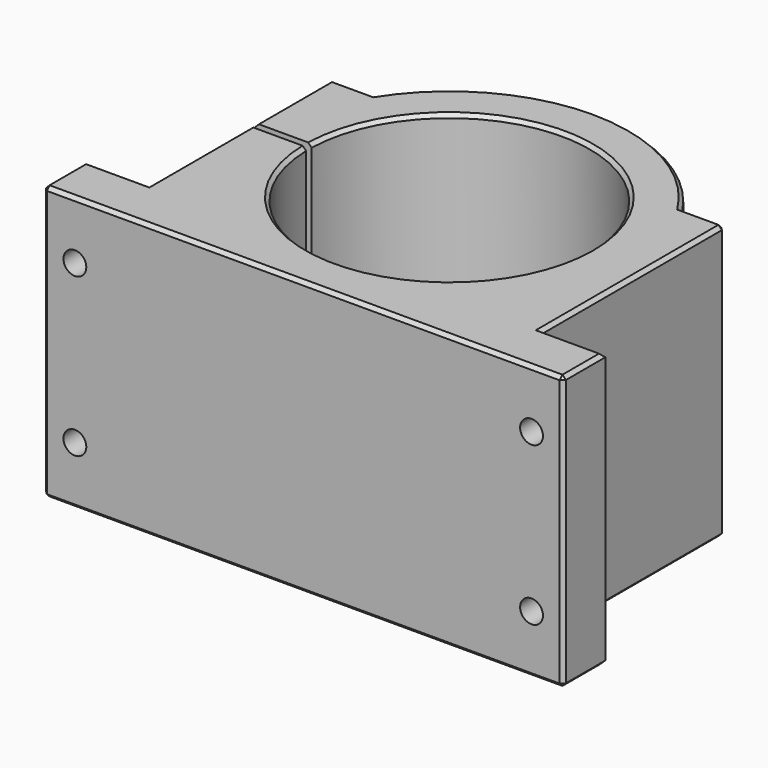
from build123d import *

# Parameters (mm, degrees)
PAD013_DEPTH            = 39
HOLE004_D               = 5.8
HOLE004_DEPTH           = 50
HOLE004_CBORE_D         = 9.5
HOLE004_CBORE_DEPTH     = 7
HOLE004_TIPS_R          = 2.9
CHAMFER003_SIZE         = 1
SKETCH021_R             = 3.25
POCKET003_DEPTH         = 408.975618
BODY005_PLACEMENT_ANGLE = 270


with BuildPart() as part:
    # Sketch019 → Pad013 (new body, symmetric)
    with BuildSketch(Plane.XZ):
        with BuildLine():
            ThreePointArc((-39.987498, -1), (40, 0), (-39.987498, 1))
            Line((-56, 1), (-39.987498, 1))
            Line((-56, 1), (-56, 28))
            Line((-56, 28), (-43.817805, 28))
            ThreePointArc((43.817805, 28), (0, 52), (-43.817805, 28))
            Line((43.817805, 28), (56, 28))
            Line((56, 28), (56, -37))
            Line((74, -37), (56, -37))
            Line((74, -52), (74, -37))
            Line((-74, -52), (74, -52))
            Line((-74, -37), (-74, -52))
            Line((-56, -37), (-74, -37))
            Line((-56, -37), (-56, -1))
            Line((-39.987498, -1), (-56, -1))
        make_face()
    extrude(amount=PAD013_DEPTH, both=True)

    # Hole004
    with Locations(Plane(origin=(0, 0, 28), x_dir=(-1, 0, 0), z_dir=(0, 0, 1))):
        with Locations((49.5, 22.5), (49.5, 0), (49.5, -22.5)):
            CounterBoreHole(HOLE004_D / 2, HOLE004_CBORE_D / 2, HOLE004_CBORE_DEPTH, depth=HOLE004_DEPTH)

    # Hole004 tips → Hole004 tip 1 section 0
    with BuildSketch(Plane(origin=(0, 0, -22), x_dir=(-1, 0, 0), z_dir=(0, 0, 1)), mode=Mode.PRIVATE) as hole004_tip_1_s0:
        with Locations((49.5, 22.5)):
            Circle(HOLE004_TIPS_R)
    loft([hole004_tip_1_s0.sketch, Vertex(-49.5, -22.5, -23.742496)], mode=Mode.SUBTRACT)

    # Hole004 tips → Hole004 tip 2 section 0
    with BuildSketch(Plane(origin=(0, 0, -22), x_dir=(-1, 0, 0), z_dir=(0, 0, 1)), mode=Mode.PRIVATE) as hole004_tip_2_s0:
        with Locations((49.5, 0)):
            Circle(HOLE004_TIPS_R)
    loft([hole004_tip_2_s0.sketch, Vertex(-49.5, 0, -23.742496)], mode=Mode.SUBTRACT)

    # Hole004 tips → Hole004 tip 3 section 0
    with BuildSketch(Plane(origin=(0, 0, -22), x_dir=(-1, 0, 0), z_dir=(0, 0, 1)), mode=Mode.PRIVATE) as hole004_tip_3_s0:
        with Locations((49.5, -22.5)):
            Circle(HOLE004_TIPS_R)
    loft([hole004_tip_3_s0.sketch, Vertex(-49.5, 22.5, -23.742496)], mode=Mode.SUBTRACT)

    # Chamfer003
    chamfer003_edges = [part.edges().sort_by_distance(p)[0] for p in [
        (40, 39, 0),
        (0, 39, 52),
        (-49.908902, 39, 28),
        (-56, 0, 28),
        (49.908902, 39, 28),
        (56, 0, 28),
        (-56, 39, 14.5),
        (-56, 39, -19),
        (-65, 39, -37),
        (-74, 39, -44.5),
        (0, 39, -52),
        (74, 39, -44.5),
        (65, 39, -37),
        (56, 39, -4.5),
        (40, -39, 0),
        (0, -39, 52),
        (-49.908902, -39, 28),
        (49.908902, -39, 28),
        (56, -39, -4.5),
        (65, -39, -37),
        (74, -39, -44.5),
        (0, -39, -52),
        (-74, -39, -44.5),
        (-65, -39, -37),
        (-56, -39, -19),
        (-56, -39, 14.5),
        (-74, 0, -52),
        (74, 0, -52),
    ]]
    chamfer(chamfer003_edges, length=CHAMFER003_SIZE)

    # Sketch021 (on Face54 of Chamfer003) → Pocket003 (cut, through all)
    with BuildSketch(Plane(origin=(0, 0, -37), x_dir=(-1, 0, 0), z_dir=(0, 0, 1))):
        with Locations((-65, 22.5)):
            Circle(SKETCH021_R)
        with Locations((-65, -22.5)):
            Circle(SKETCH021_R)
    pocket003 = extrude(amount=-POCKET003_DEPTH, mode=Mode.SUBTRACT)

    # Mirrored002: Pocket003 across YZ
    add(pocket003.mirror(Plane.YZ), mode=Mode.SUBTRACT)


with BuildPart() as part_1:
    # Body005 placement: moved
    add(part.part.moved(Location((0, 184, 0))).rotate(Axis((0, 184, 0), (1, 0, 0)), BODY005_PLACEMENT_ANGLE))


solid = part_1.part
